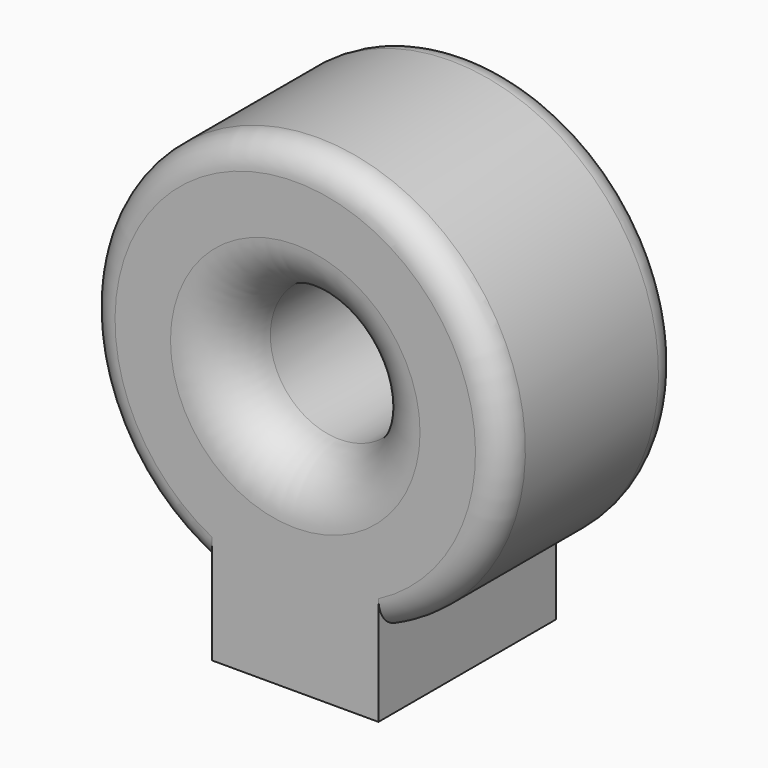
from build123d import *

# Parameters (mm, degrees)
F2_R     = 0.635
F0_DEPTH = 2.032
F3_R     = 0.508
F1_R     = 0.254


with BuildPart() as f0:
    # F2 (on Front) → F0 (new body)
    with BuildSketch(Plane.XZ):
        with BuildLine():
            Line((0.762018, -2.458423), (0.762018, -1.745953))
            ThreePointArc((0.762018, -1.745953), (-2e-05, 1.905), (-0.761982, -1.745969))
            Line((-0.761982, -1.745969), (-0.761982, -2.458431))
            Line((-0.761982, -2.458431), (0.762018, -2.458423))
        make_face()
        Circle(F2_R, mode=Mode.SUBTRACT)
    extrude(amount=F0_DEPTH)

    # F3
    f3_edges = [f0.edges().sort_by_distance(p)[0] for p in [
        (-0.635, 0, 0),
        (-0.635, -2.032, 0),
    ]]
    fillet(f3_edges, radius=F3_R)

    # F1
    f1_edges = [f0.edges().sort_by_distance(p)[0] for p in [
        (-2e-05, -2.032, 1.905),
        (-2e-05, 0, 1.905),
    ]]
    fillet(f1_edges, radius=F1_R)


solid = f0.part
